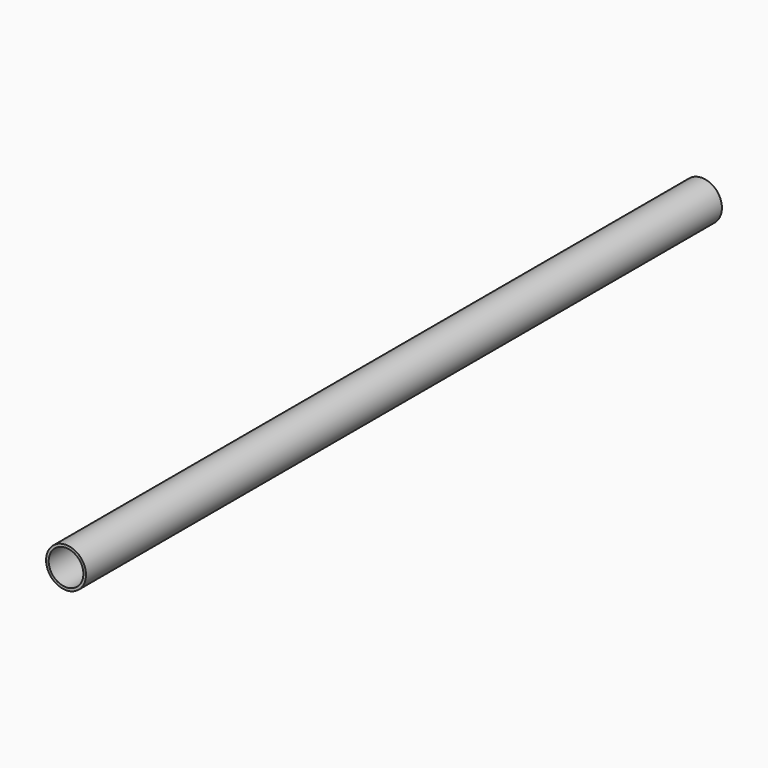
from build123d import *

# Parameters (mm, degrees)
F0_R = 19.2948988857
F3_T = -2.54


with BuildPart() as f2:
    # F2: sweep along a path in F1
    with BuildLine(Plane.XY) as f2_path:
        Line((0, 0), (0, -767.5706744194))
    # F0 (on Front) → F2 (sweep)
    with BuildSketch(Plane.XZ):
        Circle(F0_R)
    sweep(path=f2_path.line)

    # F3
    f3_openings = [f2.faces().sort_by_distance(p)[0] for p in [
        (0, -767.570674, 0),
        (0, 0, 0),
    ]]
    offset(amount=F3_T, openings=f3_openings)


solid = f2.part
